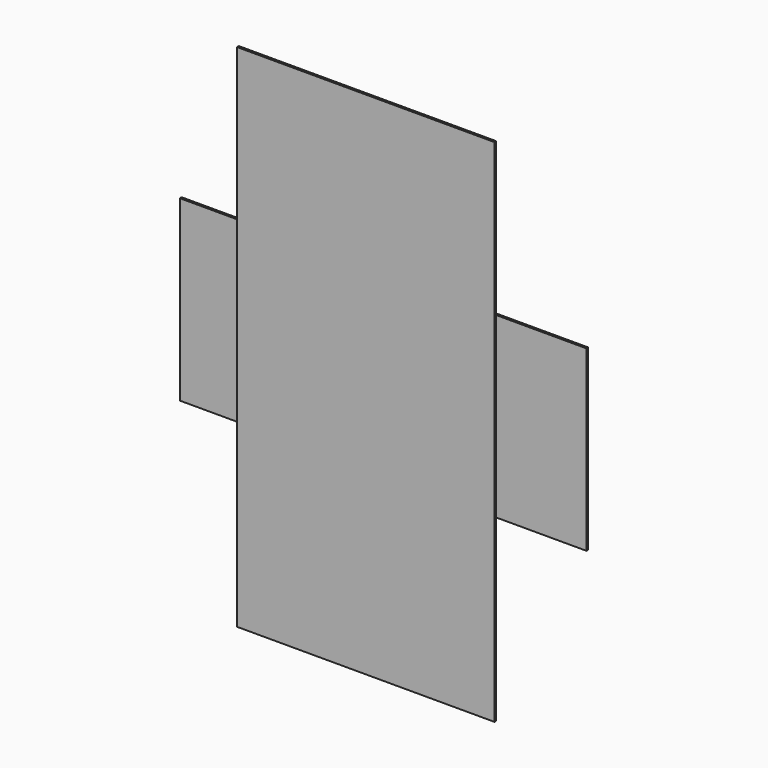
from build123d import *

# Parameters (mm, degrees)
F0_W     = 940
F0_H     = 412
F1_DEPTH = 5
F3_W     = 595
F3_H     = 1180
F4_DEPTH = 5


with BuildPart() as f1:
    # F0 (on Front) → F1 (new body)
    with BuildSketch(Plane.XZ):
        Rectangle(F0_W, F0_H)
    extrude(amount=F1_DEPTH)


with BuildPart() as f4:
    # F3 (on offset) → F4 (new body)
    with BuildSketch(Plane.XZ.offset(50)):
        Rectangle(F3_W, F3_H)
    extrude(amount=F4_DEPTH)


solid = Compound([f1.part, f4.part])
